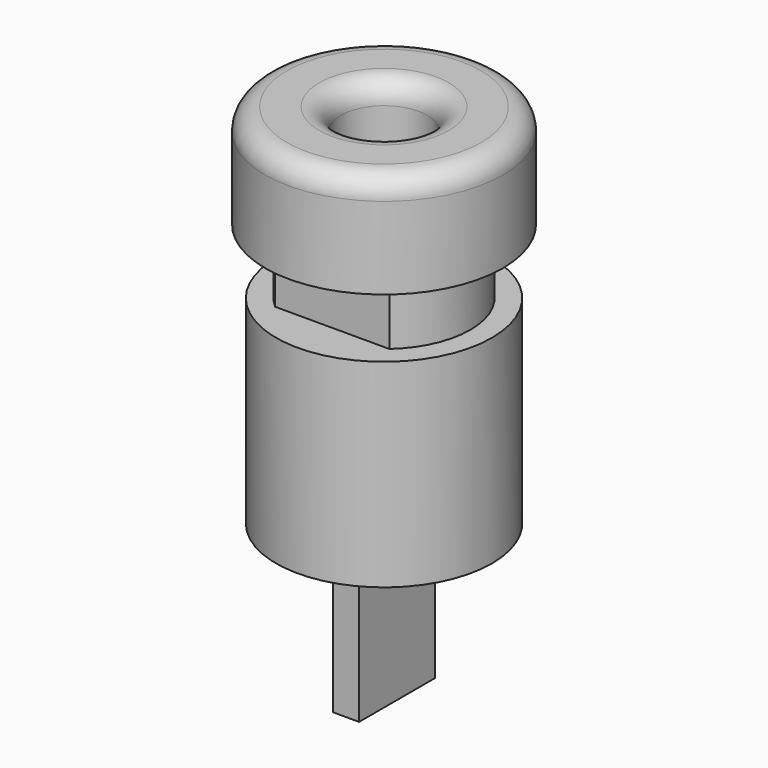
from build123d import *

# Parameters (mm, degrees)
F2_R     = 1
F3_W     = 1.2023348827
F3_H     = 4.3877884746
F4_DEPTH = 7
F5_W     = 1.6818879384
F5_H     = 3
F5_W_2   = 1.39512593
F6_DEPTH = 12.5


with BuildPart() as f1:
    # F0 (on Front) → F1 (revolve)
    with BuildSketch(Plane.XZ):
        Polygon((5.5, 4.8), (2, 4.8), (2, 0.0084556759), (0, 0.0084556759), (0, -12.2), (5, -12.2), (5, -3), (4, -3), (4, 0), (5.5, 0), align=None)
    revolve(axis=Axis((0, 0, 13.3898657501), (0, 0, -1)))

    # F2
    f2_edges = [f1.edges().sort_by_distance(p)[0] for p in [
        (-5.5, 0, 4.8),
        (-2, 0, 4.8),
    ]]
    fillet(f2_edges, radius=F2_R)

    # F3 (on face) → F4 (join)
    with BuildSketch(Plane(origin=(0, 0, -12.2), x_dir=(1, 0, 0), z_dir=(0, 0, -1))):
        Rectangle(F3_W, F3_H)
    extrude(amount=F4_DEPTH)

    # F5 (on Right) → F6 (cut, symmetric)
    with BuildSketch(Plane.YZ):
        with Locations((3.8409439692, -1.5)):
            Rectangle(F5_W, F5_H)
        with Locations((-3.697562965, -1.5)):
            Rectangle(F5_W_2, F5_H)
    extrude(amount=F6_DEPTH, both=True, mode=Mode.SUBTRACT)


solid = f1.part
